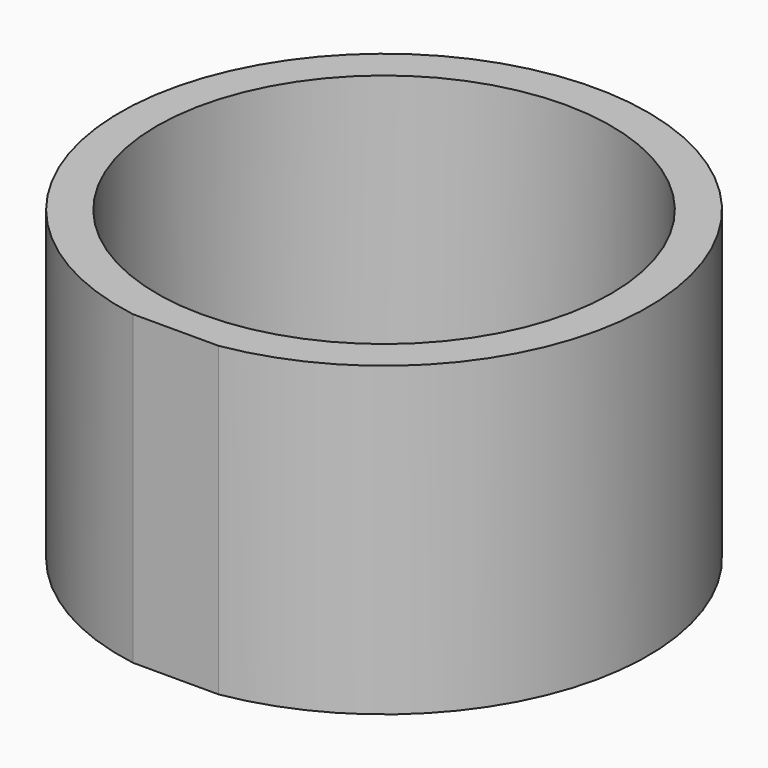
from build123d import *

# Parameters (mm, degrees)
F0_R     = 18.5
F1_DEPTH = 25


with BuildPart() as f1:
    # F0 (on Top) → F1 (new body)
    with BuildSketch(Plane.XY):
        with BuildLine():
            ThreePointArc((7, 0), (3.5, 42.713203), (0, 0))
            Line((0, 0), (7, 0))
        make_face()
        with Locations((3.5, 21.213203)):
            Circle(F0_R, mode=Mode.SUBTRACT)
    extrude(amount=F1_DEPTH)


solid = f1.part
